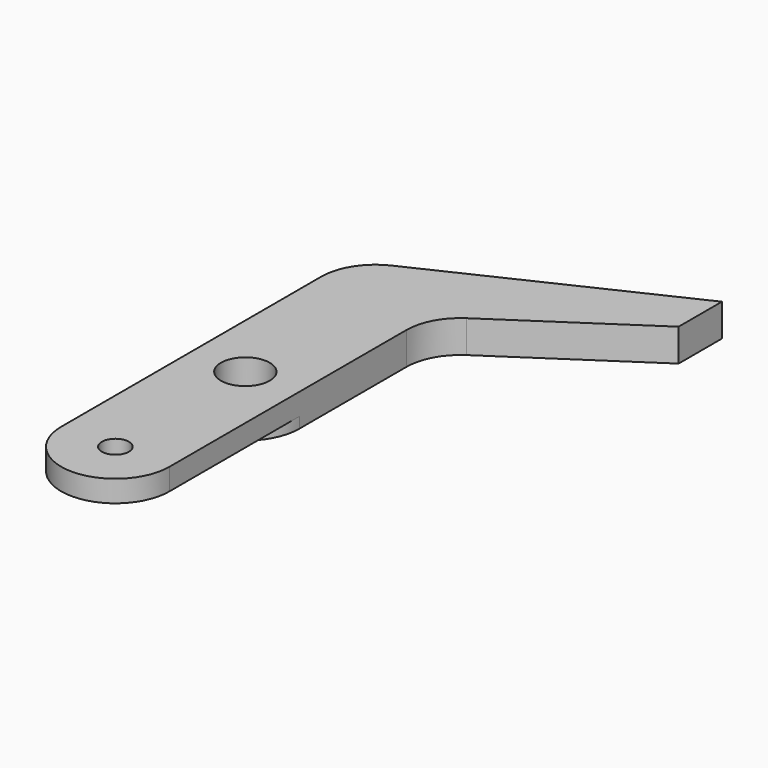
from build123d import *

# Parameters (mm, degrees)
F0_R     = 2.25
F1_DEPTH = 3
F2_START = 1
F0_R_2   = 1.25
F2_DEPTH = 2
F3_R     = 5


with BuildPart() as f1:
    # F0 (on Top) → F1 (new body)
    with BuildSketch(Plane.XY):
        with BuildLine():
            ThreePointArc((-5, 0), (0, -5), (5, 0))
            ThreePointArc((5, 0), (0, 5), (-5, 0))
        make_face()
        Circle(F0_R, mode=Mode.SUBTRACT)
        with BuildLine():
            ThreePointArc((-5, 0), (0, 5), (5, 0))
            Line((5, 0), (5, 15))
            ThreePointArc((5, 15), (0, 10), (-5, 15))
            Line((-5, 15), (-5, 0))
        make_face()
        with BuildLine():
            ThreePointArc((-5, 15), (0, 10), (5, 15))
            ThreePointArc((5, 15), (2.6742346142, 19.2247448714), (-2.1393876913, 19.5191835885))
            ThreePointArc((-2.1393876913, 19.5191835885), (-4.2247448714, 17.6742346142), (-5, 15))
        make_face()
        with BuildLine():
            ThreePointArc((-2.1393876913, 19.5191835885), (2.6742346142, 19.2247448714), (5, 15))
            Line((5, 15), (20, 25))
            Line((20, 25), (20, 30))
            Line((20, 30), (-2.1393876913, 19.5191835885))
        make_face()
    extrude(amount=F1_DEPTH)

    # F0 (on Top) → F2 (join)
    with BuildSketch(Plane.XY.offset(F2_START)):
        with BuildLine():
            Line((5, -15), (5, 0))
            ThreePointArc((5, 0), (0, -5), (-5, 0))
            Line((-5, 0), (-5, -15))
            ThreePointArc((-5, -15), (0, -10), (5, -15))
        make_face()
        with BuildLine():
            ThreePointArc((-5, -15), (0, -20), (5, -15))
            ThreePointArc((5, -15), (0, -10), (-5, -15))
        make_face()
        with Locations((0, -15)):
            Circle(F0_R_2, mode=Mode.SUBTRACT)
    extrude(amount=F2_DEPTH)

    # F3
    f3_edges = [f1.edges().sort_by_distance(p)[0] for p in [
        (5, 15, 1.5),
    ]]
    fillet(f3_edges, radius=F3_R)


solid = f1.part
